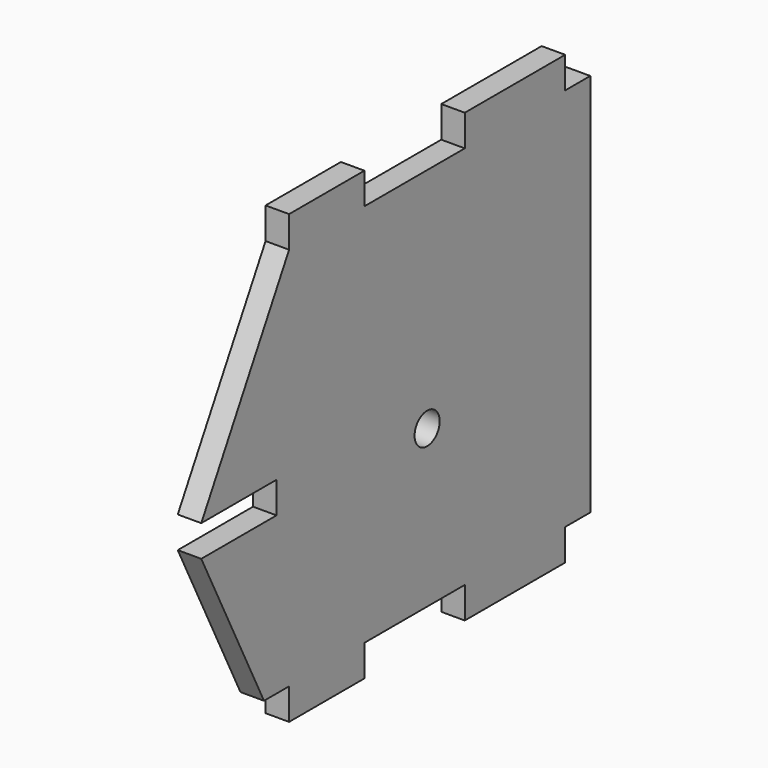
from build123d import *

# Parameters (mm, degrees)
F0_R     = 1
F1_DEPTH = 1.5


with BuildPart() as f1:
    # F0 (on Right) → F1 (new body)
    with BuildSketch(Plane.YZ):
        Polygon((-2, 0), (0, 0), (0, 24.5), (-2, 24.5), (-2, 26.5), (-10, 26.5), (-10, 24.5), (-18, 24.5), (-18, 26.5), (-24, 26.5), (-24, 24.5), (-31, 12), (-25, 12), (-25, 10), (-31, 10), (-26, 0), (-24, 0), (-24, -2), (-18, -2), (-18, 0), (-10, 0), (-10, -2), (-2, -2), align=None)
        with Locations((-13, 10)):
            Circle(F0_R, mode=Mode.SUBTRACT)
    extrude(amount=F1_DEPTH)


solid = f1.part
